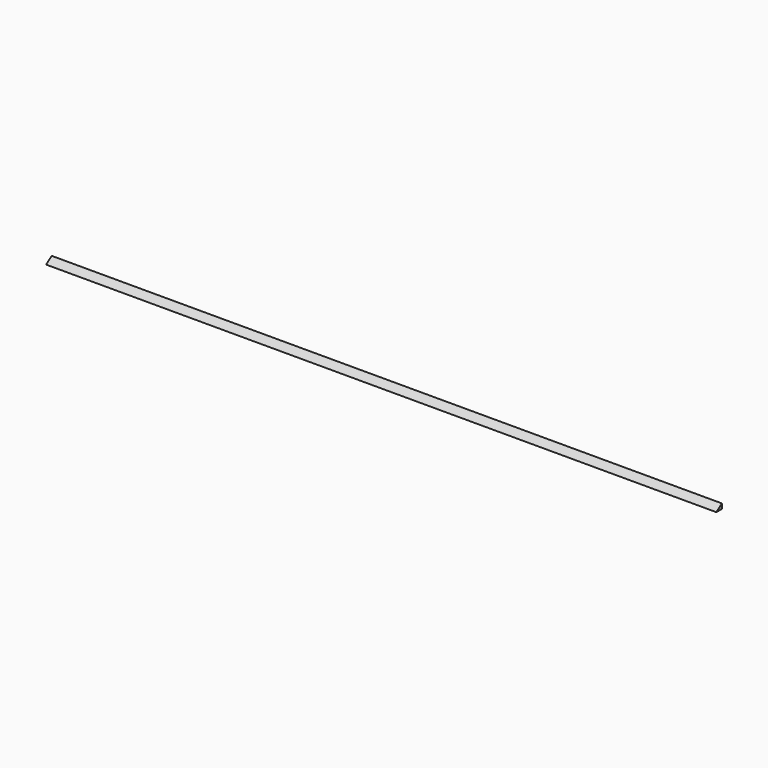
from build123d import *

# Parameters (mm, degrees)
F1_DEPTH = 304.8


with BuildPart() as f1:
    # F0 (on Right) → F1 (new body, symmetric)
    with BuildSketch(Plane.YZ):
        Polygon((6.35, 4.446318), (0, 0), (6.35, 0), align=None)
    extrude(amount=F1_DEPTH, both=True)


solid = f1.part
